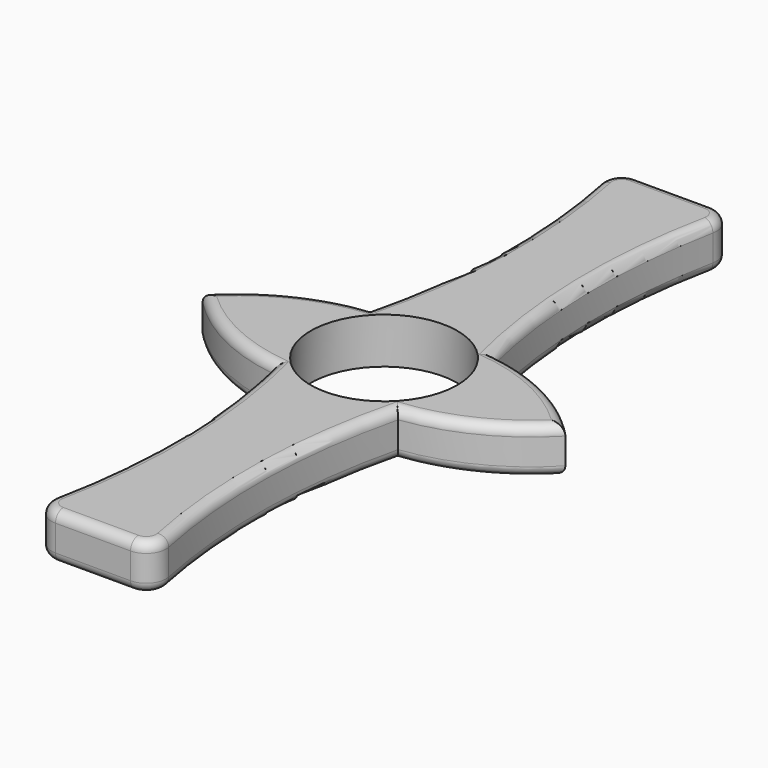
from build123d import *

# Parameters (mm, degrees)
F0_R     = 11.2
F1_DEPTH = 7
F2_R     = 1.5
F3_R     = 1.5


with BuildPart() as f1:
    # F0 (on Top) → F1 (new body)
    with BuildSketch(Plane.XY):
        with BuildLine():
            ThreePointArc((9.474284, 9.191188), (6.71139, 30.50623), (8.668923, 51.910264))
            ThreePointArc((8.668923, 51.910264), (8.053166, 54.407448), (5.729473, 55.509962))
            Line((5.729473, 55.509962), (-5.729473, 55.509962))
            ThreePointArc((-5.729473, 55.509962), (-8.053166, 54.407448), (-8.668923, 51.910264))
            ThreePointArc((-8.668923, 51.910264), (-6.71139, 30.50623), (-9.474284, 9.191188))
            ThreePointArc((-9.474284, 9.191188), (-19.370215, 6.165663), (-27.68092, 0))
            ThreePointArc((-27.68092, 0), (-19.370215, -6.165663), (-9.474284, -9.191188))
            ThreePointArc((-9.474284, -9.191188), (-6.71139, -30.50623), (-8.668923, -51.910264))
            ThreePointArc((-8.668923, -51.910264), (-8.053166, -54.407448), (-5.729473, -55.509962))
            Line((-5.729473, -55.509962), (5.729473, -55.509962))
            ThreePointArc((5.729473, -55.509962), (8.053166, -54.407448), (8.668923, -51.910264))
            ThreePointArc((8.668923, -51.910264), (6.71139, -30.50623), (9.474284, -9.191188))
            ThreePointArc((9.474284, -9.191188), (19.370215, -6.165663), (27.68092, 0))
            ThreePointArc((27.68092, 0), (19.370215, 6.165663), (9.474284, 9.191188))
        make_face()
        Circle(F0_R, mode=Mode.SUBTRACT)
    extrude(amount=F1_DEPTH)

    # F2
    f2_edges = [f1.edges().sort_by_distance(p)[0] for p in [
        (6.71139, -30.50623, 7),
        (-6.71139, -30.50623, 7),
        (-6.71139, 30.50623, 7),
        (0, 55.509962, 7),
        (6.71139, 30.50623, 7),
        (19.370215, 6.165663, 7),
        (19.370215, -6.165663, 7),
        (-19.370215, 6.165663, 7),
        (-19.370215, -6.165663, 7),
        (0, -55.509962, 7),
    ]]
    fillet(f2_edges, radius=F2_R)

    # F3
    f3_edges = [f1.edges().sort_by_distance(p)[0] for p in [
        (0, -55.509962, 0),
        (8.053166, -54.407448, 0),
        (-19.370215, -6.165663, 0),
        (-19.370215, 6.165663, 0),
        (-6.71139, 30.50623, 0),
        (6.71139, 30.50623, 0),
        (19.370215, 6.165663, 0),
        (19.370215, -6.165663, 0),
    ]]
    fillet(f3_edges, radius=F3_R)


solid = f1.part
